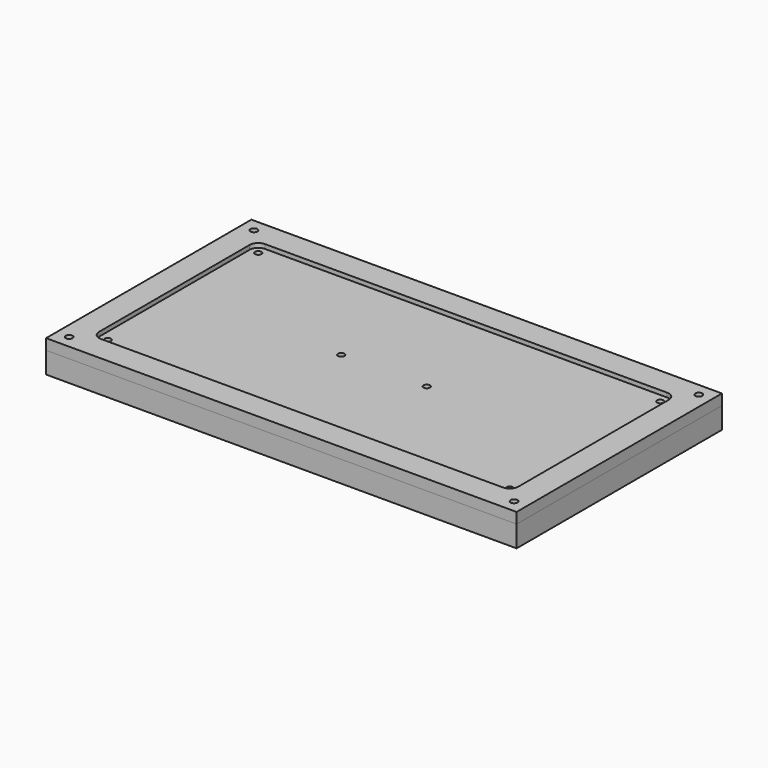
from build123d import *

# Parameters (mm, degrees)
F0_W     = 220
F0_H     = 120
F1_DEPTH = 10
F2_DEPTH = 6
F3_W     = 220
F3_H     = 120
F3_R     = 1.6
F3_R_2   = 1.5
F4_DEPTH = 5
F5_DEPTH = 5
F7_DEPTH = 2


with BuildPart() as f1:
    # F0 (on Top) → F1 (new body)
    with BuildSketch(Plane.XY):
        Rectangle(F0_W, F0_H)
        with BuildLine():
            Line((-96, 50), (96, 50))
            ThreePointArc((96, 50), (98.8284271247, 48.8284271247), (100, 46))
            Line((100, 46), (100, -46))
            ThreePointArc((100, -46), (98.8284271247, -48.8284271247), (96, -50))
            Line((96, -50), (-96, -50))
            ThreePointArc((-96, -50), (-98.8284271247, -48.8284271247), (-100, -46))
            Line((-100, -46), (-100, 46))
            ThreePointArc((-100, 46), (-98.8284271247, 48.8284271247), (-96, 50))
        make_face(mode=Mode.SUBTRACT)
        with BuildLine():
            ThreePointArc((100, 46), (98.8284271247, 48.8284271247), (96, 50))
            Line((96, 50), (-96, 50))
            ThreePointArc((-96, 50), (-98.8284271247, 48.8284271247), (-100, 46))
            Line((-100, 46), (-100, -46))
            ThreePointArc((-100, -46), (-98.8284271247, -48.8284271247), (-96, -50))
            Line((-96, -50), (96, -50))
            ThreePointArc((96, -50), (98.8284271247, -48.8284271247), (100, -46))
            Line((100, -46), (100, 46))
        make_face()
    extrude(amount=-F1_DEPTH)

    # F0 (on Top) → F2 (cut)
    with BuildSketch(Plane.XY):
        with BuildLine():
            ThreePointArc((100, 46), (98.8284271247, 48.8284271247), (96, 50))
            Line((96, 50), (-96, 50))
            ThreePointArc((-96, 50), (-98.8284271247, 48.8284271247), (-100, 46))
            Line((-100, 46), (-100, -46))
            ThreePointArc((-100, -46), (-98.8284271247, -48.8284271247), (-96, -50))
            Line((-96, -50), (96, -50))
            ThreePointArc((96, -50), (98.8284271247, -48.8284271247), (100, -46))
            Line((100, -46), (100, 46))
        make_face()
    extrude(amount=-F2_DEPTH, mode=Mode.SUBTRACT)


with BuildPart() as f4:
    # F3 (on Top) → F4 (new body)
    with BuildSketch(Plane.XY):
        Rectangle(F3_W, F3_H)
        with Locations((-104, -54)):
            Circle(F3_R, mode=Mode.SUBTRACT)
        with Locations((104, -54)):
            Circle(F3_R, mode=Mode.SUBTRACT)
        with Locations((-104, 54)):
            Circle(F3_R, mode=Mode.SUBTRACT)
        with BuildLine():
            ThreePointArc((-96, -49.75), (-98.6516504294, -48.6516504294), (-99.75, -46))
            Line((-99.75, -46), (-99.75, 46))
            ThreePointArc((-99.75, 46), (-98.6516504294, 48.6516504294), (-96, 49.75))
            Line((-96, 49.75), (96, 49.75))
            ThreePointArc((96, 49.75), (98.6516504294, 48.6516504294), (99.75, 46))
            Line((99.75, 46), (99.75, -46))
            ThreePointArc((99.75, -46), (98.6516504294, -48.6516504294), (96, -49.75))
            Line((96, -49.75), (-96, -49.75))
        make_face(mode=Mode.SUBTRACT)
        with Locations((104, 54)):
            Circle(F3_R, mode=Mode.SUBTRACT)
        with BuildLine():
            Line((-99.75, 46), (-99.75, -46))
            ThreePointArc((-99.75, -46), (-98.6516504294, -48.6516504294), (-96, -49.75))
            Line((-96, -49.75), (96, -49.75))
            ThreePointArc((96, -49.75), (98.6516504294, -48.6516504294), (99.75, -46))
            Line((99.75, -46), (99.75, 46))
            ThreePointArc((99.75, 46), (98.6516504294, 48.6516504294), (96, 49.75))
            Line((96, 49.75), (-96, 49.75))
            ThreePointArc((-96, 49.75), (-98.6516504294, 48.6516504294), (-99.75, 46))
        make_face()
        with Locations((-94, -44)):
            Circle(F3_R_2, mode=Mode.SUBTRACT)
        with Locations((94, -44)):
            Circle(F3_R_2, mode=Mode.SUBTRACT)
        with Locations((-20, 0)):
            Circle(F3_R_2, mode=Mode.SUBTRACT)
        with Locations((-94, 44)):
            Circle(F3_R_2, mode=Mode.SUBTRACT)
        with Locations((20, 0)):
            Circle(F3_R_2, mode=Mode.SUBTRACT)
        with Locations((94, 44)):
            Circle(F3_R_2, mode=Mode.SUBTRACT)
    extrude(amount=F4_DEPTH)

    # F3 (on Top) → F5 (join)
    with BuildSketch(Plane.XY):
        with BuildLine():
            Line((-99.75, 46), (-99.75, -46))
            ThreePointArc((-99.75, -46), (-98.6516504294, -48.6516504294), (-96, -49.75))
            Line((-96, -49.75), (96, -49.75))
            ThreePointArc((96, -49.75), (98.6516504294, -48.6516504294), (99.75, -46))
            Line((99.75, -46), (99.75, 46))
            ThreePointArc((99.75, 46), (98.6516504294, 48.6516504294), (96, 49.75))
            Line((96, 49.75), (-96, 49.75))
            ThreePointArc((-96, 49.75), (-98.6516504294, 48.6516504294), (-99.75, 46))
        make_face()
        with Locations((-94, -44)):
            Circle(F3_R_2, mode=Mode.SUBTRACT)
        with Locations((94, -44)):
            Circle(F3_R_2, mode=Mode.SUBTRACT)
        with Locations((-20, 0)):
            Circle(F3_R_2, mode=Mode.SUBTRACT)
        with Locations((-94, 44)):
            Circle(F3_R_2, mode=Mode.SUBTRACT)
        with Locations((20, 0)):
            Circle(F3_R_2, mode=Mode.SUBTRACT)
        with Locations((94, 44)):
            Circle(F3_R_2, mode=Mode.SUBTRACT)
    extrude(amount=-F5_DEPTH)

    # F6 (on face) → F7 (cut)
    with BuildSketch(Plane.XY.offset(5)):
        with BuildLine():
            Line((94, 48), (-94, 48))
            ThreePointArc((-94, 48), (-96.8284271247, 46.8284271247), (-98, 44))
            Line((-98, 44), (-98, -44))
            ThreePointArc((-98, -44), (-96.8284271247, -46.8284271247), (-94, -48))
            Line((-94, -48), (94, -48))
            ThreePointArc((94, -48), (96.8284271247, -46.8284271247), (98, -44))
            Line((98, -44), (98, 44))
            ThreePointArc((98, 44), (96.8284271247, 46.8284271247), (94, 48))
        make_face()
    extrude(amount=-F7_DEPTH, mode=Mode.SUBTRACT)


solid = Compound([f1.part, f4.part])
